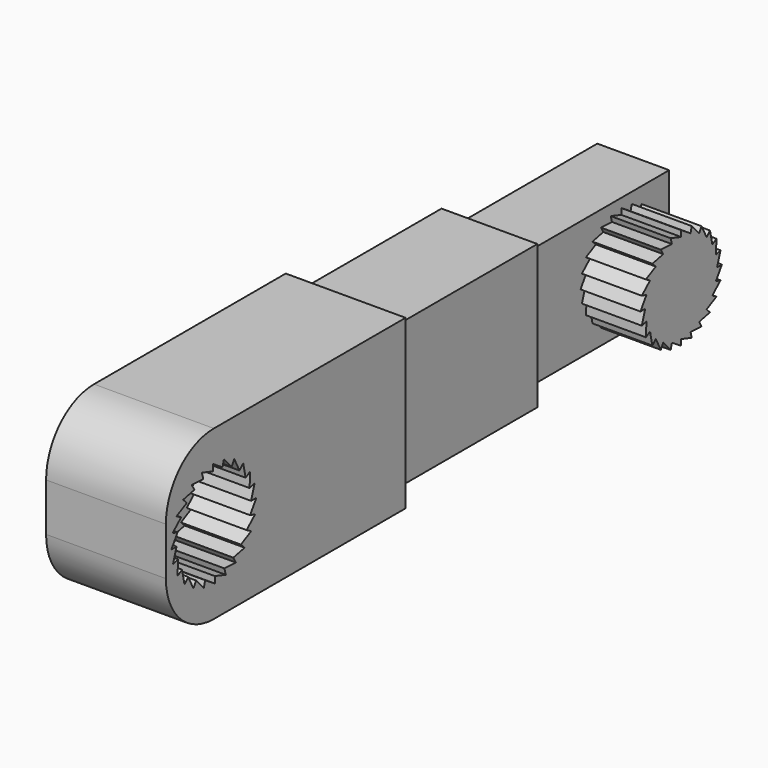
from build123d import *

# Parameters (mm, degrees)
F0_W           = 50
F0_H           = 28
F1_DEPTH       = 20
F3_DEPTH       = 10
F4_R           = 10
F5_W           = 16.4
F5_H           = 24.4
F5_W_2         = 16
F5_H_2         = 24
F6_DEPTH       = 25
F7_DEPTH       = 30
F7_DEPTH_BACK  = 20
F8_W           = 12.4
F8_H           = 20.4
F8_W_2         = 12
F8_H_2         = 20
F9_DEPTH       = 25
F10_DEPTH      = 30
F10_DEPTH_BACK = 20
F12_DEPTH      = 10


with BuildPart() as f1:
    # F0 (on Right) → F1 (new body)
    with BuildSketch(Plane.YZ):
        with Locations((25, 14)):
            Rectangle(F0_W, F0_H)
    extrude(amount=F1_DEPTH)

    # F2 (on face) → F3 (cut)
    with BuildSketch(Plane.YZ.offset(20)):
        Polygon((17.774749168, 14.2000007122), (18.513635743, 16.4882777954), (17.4580670209, 16.2054390088), (17.5795269568, 18.6069828589), (16.6331299314, 18.0605802816), (16.1288859342, 20.411729654), (15.3561559988, 19.6389997186), (14.2605714638, 21.779527669), (13.7141688864, 20.8331306436), (12.101906089, 22.6171637297), (11.8190673023, 21.5615950076), (9.7999992878, 22.8675543227), (9.7999992878, 21.774749168), (7.5117222046, 22.513635743), (7.7945609912, 21.4580670209), (5.3930171411, 21.5795269568), (5.9394197184, 20.6331299314), (3.588270346, 20.1288859342), (4.3610002814, 19.3561559988), (2.220472331, 18.2605714638), (3.1668693564, 17.7141688864), (1.3828362703, 16.101906089), (2.4384049924, 15.8190673023), (1.1324456773, 13.7999992878), (2.225250832, 13.7999992878), (1.486364257, 11.5117222046), (2.5419329791, 11.7945609912), (2.4204730432, 9.3930171411), (3.3668700686, 9.9394197184), (3.8711140658, 7.588270346), (4.6438440012, 8.3610002814), (5.7394285362, 6.220472331), (6.2858311136, 7.1668693564), (7.898093911, 5.3828362703), (8.1809326977, 6.4384049924), (10.2000007122, 5.1324456773), (10.2000007122, 6.225250832), (12.4882777954, 5.486364257), (12.2054390088, 6.5419329791), (14.6069828589, 6.4204730432), (14.0605802816, 7.3668700686), (16.411729654, 7.8711140658), (15.6389997186, 8.6438440012), (17.779527669, 9.7394285362), (16.8331306436, 10.2858311136), (18.6171637297, 11.898093911), (17.5615950076, 12.1809326977), (18.8675543227, 14.2000007122), align=None)
        Polygon((18.2103695235, 16.1999618834), (17.5, 14), (18.5, 14), (17.2444436972, 12.0588571617), (18.2103695235, 11.8000381166), (16.4951905284, 10.25), (17.3612159322, 9.75), (15.3033008589, 8.6966991411), (16.0104076401, 7.9895923599), (13.75, 7.5048094716), (14.25, 6.6387840678), (11.9411428383, 6.7555563028), (12.1999618834, 5.7896304765), (10, 6.5), (10, 5.5), (8.0588571617, 6.7555563028), (7.8000381166, 5.7896304765), (6.25, 7.5048094716), (5.75, 6.6387840678), (4.6966991411, 8.6966991411), (3.9895923599, 7.9895923599), (3.5048094716, 10.25), (2.6387840678, 9.75), (2.7555563028, 12.0588571617), (1.7896304765, 11.8000381166), (2.5, 14), (1.5, 14), (2.7555563028, 15.9411428383), (1.7896304765, 16.1999618834), (3.5048094716, 17.75), (2.6387840678, 18.25), (4.6966991411, 19.3033008589), (3.9895923599, 20.0104076401), (6.25, 20.4951905284), (5.75, 21.3612159322), (8.0588571617, 21.2444436972), (7.8000381166, 22.2103695235), (10, 21.5), (10, 22.5), (11.9411428383, 21.2444436972), (12.1999618834, 22.2103695235), (13.75, 20.4951905284), (14.25, 21.3612159322), (15.3033008589, 19.3033008589), (16.0104076401, 20.0104076401), (16.4951905284, 17.75), (17.3612159322, 18.25), (17.2444436972, 15.9411428383), align=None, mode=Mode.SUBTRACT)
        with BuildLine():
            ThreePointArc((17.2444436972, 12.0588571617), (17.4358364603, 13.0210535583), (17.5, 14))
            ThreePointArc((17.5, 14), (17.4358364603, 14.9789464417), (17.2444436972, 15.9411428383))
            ThreePointArc((17.2444436972, 15.9411428383), (16.9290964938, 16.8701257427), (16.4951905284, 17.75))
            ThreePointArc((16.4951905284, 17.75), (15.9501500522, 18.5657107176), (15.3033008589, 19.3033008589))
            ThreePointArc((15.3033008589, 19.3033008589), (14.5657107176, 19.9501500522), (13.75, 20.4951905284))
            ThreePointArc((13.75, 20.4951905284), (12.8701257427, 20.9290964938), (11.9411428383, 21.2444436972))
            ThreePointArc((11.9411428383, 21.2444436972), (10.9789464417, 21.4358364603), (10, 21.5))
            ThreePointArc((10, 21.5), (9.0210535583, 21.4358364603), (8.0588571617, 21.2444436972))
            ThreePointArc((8.0588571617, 21.2444436972), (7.1298742573, 20.9290964938), (6.25, 20.4951905284))
            ThreePointArc((6.25, 20.4951905284), (5.4342892824, 19.9501500522), (4.6966991411, 19.3033008589))
            ThreePointArc((4.6966991411, 19.3033008589), (4.0498499478, 18.5657107176), (3.5048094716, 17.75))
            ThreePointArc((3.5048094716, 17.75), (3.0709035062, 16.8701257427), (2.7555563028, 15.9411428383))
            ThreePointArc((2.7555563028, 15.9411428383), (2.5641635397, 14.9789464417), (2.5, 14))
            ThreePointArc((2.5, 14), (2.5641635397, 13.0210535583), (2.7555563028, 12.0588571617))
            ThreePointArc((2.7555563028, 12.0588571617), (3.0709035062, 11.1298742573), (3.5048094716, 10.25))
            ThreePointArc((3.5048094716, 10.25), (4.0498499478, 9.4342892824), (4.6966991411, 8.6966991411))
            ThreePointArc((4.6966991411, 8.6966991411), (5.4342892824, 8.0498499478), (6.25, 7.5048094716))
            ThreePointArc((6.25, 7.5048094716), (7.1298742573, 7.0709035062), (8.0588571617, 6.7555563028))
            ThreePointArc((8.0588571617, 6.7555563028), (9.0210535583, 6.5641635397), (10, 6.5))
            ThreePointArc((10, 6.5), (10.9789464417, 6.5641635397), (11.9411428383, 6.7555563028))
            ThreePointArc((11.9411428383, 6.7555563028), (12.8701257427, 7.0709035062), (13.75, 7.5048094716))
            ThreePointArc((13.75, 7.5048094716), (14.5657107176, 8.0498499478), (15.3033008589, 8.6966991411))
            ThreePointArc((15.3033008589, 8.6966991411), (15.9501500522, 9.4342892824), (16.4951905284, 10.25))
            ThreePointArc((16.4951905284, 10.25), (16.9290964938, 11.1298742573), (17.2444436972, 12.0588571617))
        make_face()
        with BuildLine():
            ThreePointArc((8.0588571617, 21.2444436972), (9.0210535583, 21.4358364603), (10, 21.5))
            Line((10, 21.5), (7.8000381166, 22.2103695235))
            Line((7.8000381166, 22.2103695235), (8.0588571617, 21.2444436972))
        make_face()
        with BuildLine():
            ThreePointArc((6.25, 20.4951905284), (7.1298742573, 20.9290964938), (8.0588571617, 21.2444436972))
            Line((8.0588571617, 21.2444436972), (5.75, 21.3612159322))
            Line((5.75, 21.3612159322), (6.25, 20.4951905284))
        make_face()
        with BuildLine():
            ThreePointArc((4.6966991411, 19.3033008589), (5.4342892824, 19.9501500522), (6.25, 20.4951905284))
            Line((6.25, 20.4951905284), (3.9895923599, 20.0104076401))
            Line((3.9895923599, 20.0104076401), (4.6966991411, 19.3033008589))
        make_face()
        with BuildLine():
            ThreePointArc((3.5048094716, 17.75), (4.0498499478, 18.5657107176), (4.6966991411, 19.3033008589))
            Line((4.6966991411, 19.3033008589), (2.6387840678, 18.25))
            Line((2.6387840678, 18.25), (3.5048094716, 17.75))
        make_face()
        with BuildLine():
            ThreePointArc((2.7555563028, 15.9411428383), (3.0709035062, 16.8701257427), (3.5048094716, 17.75))
            Line((3.5048094716, 17.75), (1.7896304765, 16.1999618834))
            Line((1.7896304765, 16.1999618834), (2.7555563028, 15.9411428383))
        make_face()
        with BuildLine():
            Line((1.7896304765, 11.8000381166), (2.7555563028, 12.0588571617))
            ThreePointArc((2.7555563028, 12.0588571617), (2.5641635397, 13.0210535583), (2.5, 14))
            Line((2.5, 14), (1.7896304765, 11.8000381166))
        make_face()
        with BuildLine():
            ThreePointArc((2.5, 14), (2.5641635397, 14.9789464417), (2.7555563028, 15.9411428383))
            Line((2.7555563028, 15.9411428383), (1.5, 14))
            Line((1.5, 14), (2.5, 14))
        make_face()
        with BuildLine():
            Line((2.6387840678, 9.75), (3.5048094716, 10.25))
            ThreePointArc((3.5048094716, 10.25), (3.0709035062, 11.1298742573), (2.7555563028, 12.0588571617))
            Line((2.7555563028, 12.0588571617), (2.6387840678, 9.75))
        make_face()
        with BuildLine():
            ThreePointArc((10, 21.5), (10.9789464417, 21.4358364603), (11.9411428383, 21.2444436972))
            Line((11.9411428383, 21.2444436972), (10, 22.5))
            Line((10, 22.5), (10, 21.5))
        make_face()
        with BuildLine():
            ThreePointArc((11.9411428383, 21.2444436972), (12.8701257427, 20.9290964938), (13.75, 20.4951905284))
            Line((13.75, 20.4951905284), (12.1999618834, 22.2103695235))
            Line((12.1999618834, 22.2103695235), (11.9411428383, 21.2444436972))
        make_face()
        with BuildLine():
            ThreePointArc((13.75, 20.4951905284), (14.5657107176, 19.9501500522), (15.3033008589, 19.3033008589))
            Line((15.3033008589, 19.3033008589), (14.25, 21.3612159322))
            Line((14.25, 21.3612159322), (13.75, 20.4951905284))
        make_face()
        with BuildLine():
            ThreePointArc((15.3033008589, 19.3033008589), (15.9501500522, 18.5657107176), (16.4951905284, 17.75))
            Line((16.4951905284, 17.75), (16.0104076401, 20.0104076401))
            Line((16.0104076401, 20.0104076401), (15.3033008589, 19.3033008589))
        make_face()
        with BuildLine():
            ThreePointArc((16.4951905284, 17.75), (16.9290964938, 16.8701257427), (17.2444436972, 15.9411428383))
            Line((17.2444436972, 15.9411428383), (17.3612159322, 18.25))
            Line((17.3612159322, 18.25), (16.4951905284, 17.75))
        make_face()
        with BuildLine():
            ThreePointArc((17.2444436972, 15.9411428383), (17.4358364603, 14.9789464417), (17.5, 14))
            Line((17.5, 14), (18.2103695235, 16.1999618834))
            Line((18.2103695235, 16.1999618834), (17.2444436972, 15.9411428383))
        make_face()
        with BuildLine():
            Line((18.5, 14), (17.5, 14))
            ThreePointArc((17.5, 14), (17.4358364603, 13.0210535583), (17.2444436972, 12.0588571617))
            Line((17.2444436972, 12.0588571617), (18.5, 14))
        make_face()
        with BuildLine():
            Line((18.2103695235, 11.8000381166), (17.2444436972, 12.0588571617))
            ThreePointArc((17.2444436972, 12.0588571617), (16.9290964938, 11.1298742573), (16.4951905284, 10.25))
            Line((16.4951905284, 10.25), (18.2103695235, 11.8000381166))
        make_face()
        with BuildLine():
            Line((17.3612159322, 9.75), (16.4951905284, 10.25))
            ThreePointArc((16.4951905284, 10.25), (15.9501500522, 9.4342892824), (15.3033008589, 8.6966991411))
            Line((15.3033008589, 8.6966991411), (17.3612159322, 9.75))
        make_face()
        with BuildLine():
            Line((16.0104076401, 7.9895923599), (15.3033008589, 8.6966991411))
            ThreePointArc((15.3033008589, 8.6966991411), (14.5657107176, 8.0498499478), (13.75, 7.5048094716))
            Line((13.75, 7.5048094716), (16.0104076401, 7.9895923599))
        make_face()
        with BuildLine():
            Line((14.25, 6.6387840678), (13.75, 7.5048094716))
            ThreePointArc((13.75, 7.5048094716), (12.8701257427, 7.0709035062), (11.9411428383, 6.7555563028))
            Line((11.9411428383, 6.7555563028), (14.25, 6.6387840678))
        make_face()
        with BuildLine():
            Line((12.1999618834, 5.7896304765), (11.9411428383, 6.7555563028))
            ThreePointArc((11.9411428383, 6.7555563028), (10.9789464417, 6.5641635397), (10, 6.5))
            Line((10, 6.5), (12.1999618834, 5.7896304765))
        make_face()
        with BuildLine():
            Line((10, 5.5), (10, 6.5))
            ThreePointArc((10, 6.5), (9.0210535583, 6.5641635397), (8.0588571617, 6.7555563028))
            Line((8.0588571617, 6.7555563028), (10, 5.5))
        make_face()
        with BuildLine():
            Line((7.8000381166, 5.7896304765), (8.0588571617, 6.7555563028))
            ThreePointArc((8.0588571617, 6.7555563028), (7.1298742573, 7.0709035062), (6.25, 7.5048094716))
            Line((6.25, 7.5048094716), (7.8000381166, 5.7896304765))
        make_face()
        with BuildLine():
            Line((5.75, 6.6387840678), (6.25, 7.5048094716))
            ThreePointArc((6.25, 7.5048094716), (5.4342892824, 8.0498499478), (4.6966991411, 8.6966991411))
            Line((4.6966991411, 8.6966991411), (5.75, 6.6387840678))
        make_face()
        with BuildLine():
            Line((3.9895923599, 7.9895923599), (4.6966991411, 8.6966991411))
            ThreePointArc((4.6966991411, 8.6966991411), (4.0498499478, 9.4342892824), (3.5048094716, 10.25))
            Line((3.5048094716, 10.25), (3.9895923599, 7.9895923599))
        make_face()
    extrude(amount=-F3_DEPTH, mode=Mode.SUBTRACT)

    # F4
    f4_edges = [f1.edges().sort_by_distance(p)[0] for p in [
        (10, 0, 0),
        (10, 0, 28),
    ]]
    fillet(f4_edges, radius=F4_R)

    # F5 (on face) → F6 (cut)
    with BuildSketch(Plane(origin=(0, 50, 0), x_dir=(-1, 0, 0), z_dir=(0, 1, 0))):
        with Locations((-10, 14)):
            Rectangle(F5_W, F5_H)
        with Locations((-10, 14)):
            Rectangle(F5_W_2, F5_H_2, mode=Mode.SUBTRACT)
        with Locations((-10, 14)):
            Rectangle(F5_W_2, F5_H_2)
    extrude(amount=-F6_DEPTH, mode=Mode.SUBTRACT)


with BuildPart() as f7:
    # F5 (on face) → F7 (new body, two sides)
    with BuildSketch(Plane(origin=(0, 50, 0), x_dir=(-1, 0, 0), z_dir=(0, 1, 0))) as f7_sk:
        with Locations((-10, 14)):
            Rectangle(F5_W_2, F5_H_2)
    extrude(amount=F7_DEPTH)
    extrude(f7_sk.sketch, amount=-F7_DEPTH_BACK)

    # F8 (on face) → F9 (cut)
    with BuildSketch(Plane(origin=(0, 80, 0), x_dir=(-1, 0, 0), z_dir=(0, 1, 0))):
        with Locations((-10, 14)):
            Rectangle(F8_W, F8_H)
        with Locations((-10, 14)):
            Rectangle(F8_W_2, F8_H_2, mode=Mode.SUBTRACT)
        with Locations((-10, 14)):
            Rectangle(F8_W_2, F8_H_2)
    extrude(amount=-F9_DEPTH, mode=Mode.SUBTRACT)


with BuildPart() as f10:
    # F8 (on face) → F10 (new body, two sides)
    with BuildSketch(Plane(origin=(0, 80, 0), x_dir=(-1, 0, 0), z_dir=(0, 1, 0))) as f10_sk:
        with Locations((-10, 14)):
            Rectangle(F8_W_2, F8_H_2)
    extrude(amount=F10_DEPTH)
    extrude(f10_sk.sketch, amount=-F10_DEPTH_BACK)

    # F11 (on face) → F12 (join)
    with BuildSketch(Plane.YZ.offset(16)):
        with BuildLine():
            ThreePointArc((107.2444436972, 12.0588571617), (107.4358364603, 13.0210535583), (107.5, 14))
            ThreePointArc((107.5, 14), (107.4358364603, 14.9789464417), (107.2444436972, 15.9411428383))
            ThreePointArc((107.2444436972, 15.9411428383), (106.9290964938, 16.8701257427), (106.4951905284, 17.75))
            ThreePointArc((106.4951905284, 17.75), (105.9501500522, 18.5657107176), (105.3033008589, 19.3033008589))
            ThreePointArc((105.3033008589, 19.3033008589), (104.5657107176, 19.9501500522), (103.75, 20.4951905284))
            ThreePointArc((103.75, 20.4951905284), (102.8701257427, 20.9290964938), (101.9411428383, 21.2444436972))
            ThreePointArc((101.9411428383, 21.2444436972), (100.9789464417, 21.4358364603), (100, 21.5))
            ThreePointArc((100, 21.5), (99.0210535583, 21.4358364603), (98.0588571617, 21.2444436972))
            ThreePointArc((98.0588571617, 21.2444436972), (97.1298742573, 20.9290964938), (96.25, 20.4951905284))
            ThreePointArc((96.25, 20.4951905284), (95.4342892824, 19.9501500522), (94.6966991411, 19.3033008589))
            ThreePointArc((94.6966991411, 19.3033008589), (94.0498499478, 18.5657107176), (93.5048094716, 17.75))
            ThreePointArc((93.5048094716, 17.75), (93.0709035062, 16.8701257427), (92.7555563028, 15.9411428383))
            ThreePointArc((92.7555563028, 15.9411428383), (92.5641635397, 14.9789464417), (92.5, 14))
            ThreePointArc((92.5, 14), (92.5641635397, 13.0210535583), (92.7555563028, 12.0588571617))
            ThreePointArc((92.7555563028, 12.0588571617), (93.0709035062, 11.1298742573), (93.5048094716, 10.25))
            ThreePointArc((93.5048094716, 10.25), (94.0498499478, 9.4342892824), (94.6966991411, 8.6966991411))
            ThreePointArc((94.6966991411, 8.6966991411), (95.4342892824, 8.0498499478), (96.25, 7.5048094716))
            ThreePointArc((96.25, 7.5048094716), (97.1298742573, 7.0709035062), (98.0588571617, 6.7555563028))
            ThreePointArc((98.0588571617, 6.7555563028), (99.0210535583, 6.5641635397), (100, 6.5))
            ThreePointArc((100, 6.5), (100.9789464417, 6.5641635397), (101.9411428383, 6.7555563028))
            ThreePointArc((101.9411428383, 6.7555563028), (102.8701257427, 7.0709035062), (103.75, 7.5048094716))
            ThreePointArc((103.75, 7.5048094716), (104.5657107176, 8.0498499478), (105.3033008589, 8.6966991411))
            ThreePointArc((105.3033008589, 8.6966991411), (105.9501500522, 9.4342892824), (106.4951905284, 10.25))
            ThreePointArc((106.4951905284, 10.25), (106.9290964938, 11.1298742573), (107.2444436972, 12.0588571617))
        make_face()
        with BuildLine():
            Line((108.2103695235, 11.8000381166), (107.2444436972, 12.0588571617))
            ThreePointArc((107.2444436972, 12.0588571617), (106.9290964938, 11.1298742573), (106.4951905284, 10.25))
            Line((106.4951905284, 10.25), (108.2103695235, 11.8000381166))
        make_face()
        with BuildLine():
            Line((108.5, 14), (107.5, 14))
            ThreePointArc((107.5, 14), (107.4358364603, 13.0210535583), (107.2444436972, 12.0588571617))
            Line((107.2444436972, 12.0588571617), (108.5, 14))
        make_face()
        with BuildLine():
            ThreePointArc((107.2444436972, 15.9411428383), (107.4358364603, 14.9789464417), (107.5, 14))
            Line((107.5, 14), (108.2103695235, 16.1999618834))
            Line((108.2103695235, 16.1999618834), (107.2444436972, 15.9411428383))
        make_face()
        with BuildLine():
            ThreePointArc((106.4951905284, 17.75), (106.9290964938, 16.8701257427), (107.2444436972, 15.9411428383))
            Line((107.2444436972, 15.9411428383), (107.3612159322, 18.25))
            Line((107.3612159322, 18.25), (106.4951905284, 17.75))
        make_face()
        with BuildLine():
            ThreePointArc((105.3033008589, 19.3033008589), (105.9501500522, 18.5657107176), (106.4951905284, 17.75))
            Line((106.4951905284, 17.75), (106.0104076401, 20.0104076401))
            Line((106.0104076401, 20.0104076401), (105.3033008589, 19.3033008589))
        make_face()
        with BuildLine():
            ThreePointArc((103.75, 20.4951905284), (104.5657107176, 19.9501500522), (105.3033008589, 19.3033008589))
            Line((105.3033008589, 19.3033008589), (104.25, 21.3612159322))
            Line((104.25, 21.3612159322), (103.75, 20.4951905284))
        make_face()
        with BuildLine():
            ThreePointArc((101.9411428383, 21.2444436972), (102.8701257427, 20.9290964938), (103.75, 20.4951905284))
            Line((103.75, 20.4951905284), (102.1999618834, 22.2103695235))
            Line((102.1999618834, 22.2103695235), (101.9411428383, 21.2444436972))
        make_face()
        with BuildLine():
            ThreePointArc((100, 21.5), (100.9789464417, 21.4358364603), (101.9411428383, 21.2444436972))
            Line((101.9411428383, 21.2444436972), (100, 22.5))
            Line((100, 22.5), (100, 21.5))
        make_face()
        with BuildLine():
            ThreePointArc((98.0588571617, 21.2444436972), (99.0210535583, 21.4358364603), (100, 21.5))
            Line((100, 21.5), (97.8000381166, 22.2103695235))
            Line((97.8000381166, 22.2103695235), (98.0588571617, 21.2444436972))
        make_face()
        with BuildLine():
            ThreePointArc((96.25, 20.4951905284), (97.1298742573, 20.9290964938), (98.0588571617, 21.2444436972))
            Line((98.0588571617, 21.2444436972), (95.75, 21.3612159322))
            Line((95.75, 21.3612159322), (96.25, 20.4951905284))
        make_face()
        with BuildLine():
            ThreePointArc((94.6966991411, 19.3033008589), (95.4342892824, 19.9501500522), (96.25, 20.4951905284))
            Line((96.25, 20.4951905284), (93.9895923599, 20.0104076401))
            Line((93.9895923599, 20.0104076401), (94.6966991411, 19.3033008589))
        make_face()
        with BuildLine():
            ThreePointArc((93.5048094716, 17.75), (94.0498499478, 18.5657107176), (94.6966991411, 19.3033008589))
            Line((94.6966991411, 19.3033008589), (92.6387840678, 18.25))
            Line((92.6387840678, 18.25), (93.5048094716, 17.75))
        make_face()
        with BuildLine():
            ThreePointArc((92.7555563028, 15.9411428383), (93.0709035062, 16.8701257427), (93.5048094716, 17.75))
            Line((93.5048094716, 17.75), (91.7896304765, 16.1999618834))
            Line((91.7896304765, 16.1999618834), (92.7555563028, 15.9411428383))
        make_face()
        with BuildLine():
            ThreePointArc((92.5, 14), (92.5641635397, 14.9789464417), (92.7555563028, 15.9411428383))
            Line((92.7555563028, 15.9411428383), (91.5, 14))
            Line((91.5, 14), (92.5, 14))
        make_face()
        with BuildLine():
            Line((91.7896304765, 11.8000381166), (92.7555563028, 12.0588571617))
            ThreePointArc((92.7555563028, 12.0588571617), (92.5641635397, 13.0210535583), (92.5, 14))
            Line((92.5, 14), (91.7896304765, 11.8000381166))
        make_face()
        with BuildLine():
            Line((92.6387840678, 9.75), (93.5048094716, 10.25))
            ThreePointArc((93.5048094716, 10.25), (93.0709035062, 11.1298742573), (92.7555563028, 12.0588571617))
            Line((92.7555563028, 12.0588571617), (92.6387840678, 9.75))
        make_face()
        with BuildLine():
            Line((93.9895923599, 7.9895923599), (94.6966991411, 8.6966991411))
            ThreePointArc((94.6966991411, 8.6966991411), (94.0498499478, 9.4342892824), (93.5048094716, 10.25))
            Line((93.5048094716, 10.25), (93.9895923599, 7.9895923599))
        make_face()
        with BuildLine():
            Line((95.75, 6.6387840678), (96.25, 7.5048094716))
            ThreePointArc((96.25, 7.5048094716), (95.4342892824, 8.0498499478), (94.6966991411, 8.6966991411))
            Line((94.6966991411, 8.6966991411), (95.75, 6.6387840678))
        make_face()
        with BuildLine():
            Line((97.8000381166, 5.7896304765), (98.0588571617, 6.7555563028))
            ThreePointArc((98.0588571617, 6.7555563028), (97.1298742573, 7.0709035062), (96.25, 7.5048094716))
            Line((96.25, 7.5048094716), (97.8000381166, 5.7896304765))
        make_face()
        with BuildLine():
            Line((100, 5.5), (100, 6.5))
            ThreePointArc((100, 6.5), (99.0210535583, 6.5641635397), (98.0588571617, 6.7555563028))
            Line((98.0588571617, 6.7555563028), (100, 5.5))
        make_face()
        with BuildLine():
            Line((107.3612159322, 9.75), (106.4951905284, 10.25))
            ThreePointArc((106.4951905284, 10.25), (105.9501500522, 9.4342892824), (105.3033008589, 8.6966991411))
            Line((105.3033008589, 8.6966991411), (107.3612159322, 9.75))
        make_face()
        with BuildLine():
            Line((106.0104076401, 7.9895923599), (105.3033008589, 8.6966991411))
            ThreePointArc((105.3033008589, 8.6966991411), (104.5657107176, 8.0498499478), (103.75, 7.5048094716))
            Line((103.75, 7.5048094716), (106.0104076401, 7.9895923599))
        make_face()
        with BuildLine():
            Line((104.25, 6.6387840678), (103.75, 7.5048094716))
            ThreePointArc((103.75, 7.5048094716), (102.8701257427, 7.0709035062), (101.9411428383, 6.7555563028))
            Line((101.9411428383, 6.7555563028), (104.25, 6.6387840678))
        make_face()
        with BuildLine():
            Line((102.1999618834, 5.7896304765), (101.9411428383, 6.7555563028))
            ThreePointArc((101.9411428383, 6.7555563028), (100.9789464417, 6.5641635397), (100, 6.5))
            Line((100, 6.5), (102.1999618834, 5.7896304765))
        make_face()
    extrude(amount=F12_DEPTH)


solid = Compound([f1.part, f7.part, f10.part])
